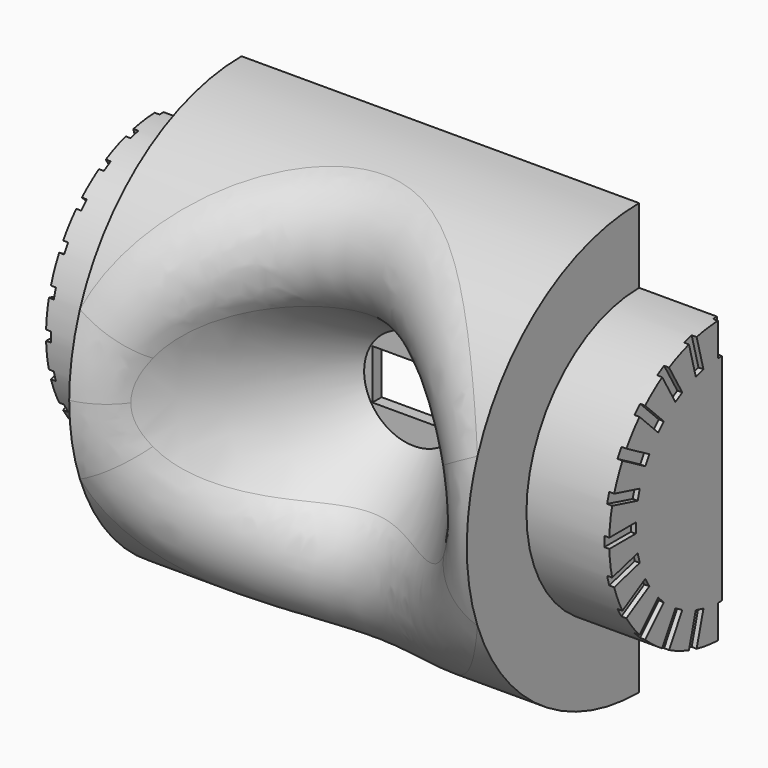
from build123d import *

# Parameters (mm, degrees)
PAD140_DEPTH                       = 12
PAD141_DEPTH                       = 5
POCKET001_DEPTH                    = 1.3
SKETCH008_W                        = 5
SKETCH008_H                        = 3
POCKET002_DEPTH                    = 80.350833
POCKET004_DEPTH                    = 8
SKETCH025_R                        = 1.375
PAD139_DEPTH                       = 1.3
FILLET005_R                        = 4
POCKET008_DEPTH                    = 0.3
POCKET008_POLARPATTERN004_2_DEPTH  = 0.3
POCKET008_POLARPATTERN004_3_DEPTH  = 0.3
POCKET008_POLARPATTERN004_4_DEPTH  = 0.3
POCKET008_POLARPATTERN004_5_DEPTH  = 0.3
POCKET008_POLARPATTERN004_6_DEPTH  = 0.3
POCKET008_POLARPATTERN004_7_DEPTH  = 0.3
POCKET008_POLARPATTERN004_8_DEPTH  = 0.3
POCKET008_POLARPATTERN004_9_DEPTH  = 0.3
POCKET008_POLARPATTERN004_10_DEPTH = 0.3
POCKET008_POLARPATTERN004_11_DEPTH = 0.3
POCKET008_POLARPATTERN004_12_DEPTH = 0.3
POCKET008_POLARPATTERN004_13_DEPTH = 0.3


with BuildPart() as part:
    # Sketch005 → Pad140 (new body)
    with BuildSketch(Plane.YZ):
        with BuildLine():
            ThreePointArc((0, 13), (-13, 0), (0, -13))
            Line((0, 13), (0, -13))
        make_face()
    pad140 = extrude(amount=PAD140_DEPTH)

    # Sketch006 → Pad141 (join)
    with BuildSketch(Plane.YZ.offset(12)):
        with BuildLine():
            ThreePointArc((0, 8.5), (-8.5, 0), (0, -8.5))
            Line((0, 8.5), (0, -8.5))
        make_face()
    pad141 = extrude(amount=PAD141_DEPTH)

    # Sketch007 → Pocket001 (cut)
    with BuildSketch(Plane(origin=(0, 0, 0), x_dir=(-1, 0, 0), z_dir=(0, 1, 0))):
        Polygon((-8, 4.4), (0, 4.4), (0, -8.4), (-8, -8.4), (-12.65, -3.75), (-12.65, -0.25), align=None)
    pocket001 = extrude(amount=-POCKET001_DEPTH, mode=Mode.SUBTRACT)

    # Sketch008 → Pocket002 (cut, through all)
    with BuildSketch(Plane.XZ):
        Rectangle(SKETCH008_W, SKETCH008_H)
    pocket002 = extrude(amount=POCKET002_DEPTH, mode=Mode.SUBTRACT)

    # Sketch010 → Pocket004 (cut)
    with BuildSketch(Plane(origin=(0, 0, 0), x_dir=(0, -1, 0), z_dir=(-1, 0, 0))):
        with BuildLine():
            ThreePointArc((1, -8), (3.25, -5.75), (1, -3.5))
            Line((1, -3.5), (1, -8))
        make_face()
    pocket004 = extrude(amount=-POCKET004_DEPTH, mode=Mode.SUBTRACT)

    # Sketch025 (on Face11 of Pocket004) → Pad139 (join)
    with BuildSketch(Plane.ZX.offset(-1.3)):
        with Locations((-2, 10)):
            Circle(SKETCH025_R)
    pad139 = extrude(amount=PAD139_DEPTH)

    # Mirrored018: Pad140, Pad141, Pocket001, Pocket002, Pocket004, Pad139 across YZ
    add(pad140.mirror(Plane.YZ))
    add(pad141.mirror(Plane.YZ))
    add(pocket001.mirror(Plane.YZ), mode=Mode.SUBTRACT)
    add(pocket002.mirror(Plane.YZ), mode=Mode.SUBTRACT)
    add(pocket004.mirror(Plane.YZ), mode=Mode.SUBTRACT)
    add(pad139.mirror(Plane.YZ))

    # Sketch019 → Groove (revolve, cut)
    with BuildSketch(Plane(origin=(0, -2, 0), x_dir=(1, 0, 0), z_dir=(0, 0, 1))):
        Polygon((-3, 0), (-17.004151, -20), (0, -20), (0, 0), align=None)
    revolve(axis=Axis((0, -2, 0), (0, 1, 0)), mode=Mode.SUBTRACT)

    # Fillet005
    fillet005_edges = [part.edges().sort_by_distance(p)[0] for p in [
        (10.702283, -13, 0),
    ]]
    fillet(fillet005_edges, radius=FILLET005_R)

    # Sketch020 → Pocket008 (cut)
    with BuildSketch(Plane.YZ.offset(-17)):
        with BuildLine():
            Line((0.3, 8.5), (0.3, 6.5))
            Line((0.3, 6.5), (-0.3, 6.5))
            Line((-0.3, 6.5), (-0.3, 8.5))
            ThreePointArc((0.3, 8.5), (0, 8.505292), (-0.3, 8.5))
        make_face()
    pocket008 = extrude(amount=POCKET008_DEPTH, mode=Mode.SUBTRACT)

    # Sketch020 PolarPattern004 2 → Pocket008 PolarPattern004 2 (cut)
    with BuildSketch(Plane(origin=(-17, 0, 0), x_dir=(0, 0.965926, 0.258819), z_dir=(1, 0, 0))):
        with BuildLine():
            Line((0.3, 8.5), (0.3, 6.5))
            Line((0.3, 6.5), (-0.3, 6.5))
            Line((-0.3, 6.5), (-0.3, 8.5))
            ThreePointArc((0.3, 8.5), (0, 8.505292), (-0.3, 8.5))
        make_face()
    pocket008_polarpattern004_2 = extrude(amount=POCKET008_POLARPATTERN004_2_DEPTH, mode=Mode.SUBTRACT)

    # Sketch020 PolarPattern004 3 → Pocket008 PolarPattern004 3 (cut)
    with BuildSketch(Plane(origin=(-17, 0, 0), x_dir=(0, 0.866025, 0.5), z_dir=(1, 0, 0))):
        with BuildLine():
            Line((0.3, 8.5), (0.3, 6.5))
            Line((0.3, 6.5), (-0.3, 6.5))
            Line((-0.3, 6.5), (-0.3, 8.5))
            ThreePointArc((0.3, 8.5), (0, 8.505292), (-0.3, 8.5))
        make_face()
    pocket008_polarpattern004_3 = extrude(amount=POCKET008_POLARPATTERN004_3_DEPTH, mode=Mode.SUBTRACT)

    # Sketch020 PolarPattern004 4 → Pocket008 PolarPattern004 4 (cut)
    with BuildSketch(Plane(origin=(-17, 0, 0), x_dir=(0, 0.707107, 0.707107), z_dir=(1, 0, 0))):
        with BuildLine():
            Line((0.3, 8.5), (0.3, 6.5))
            Line((0.3, 6.5), (-0.3, 6.5))
            Line((-0.3, 6.5), (-0.3, 8.5))
            ThreePointArc((0.3, 8.5), (0, 8.505292), (-0.3, 8.5))
        make_face()
    pocket008_polarpattern004_4 = extrude(amount=POCKET008_POLARPATTERN004_4_DEPTH, mode=Mode.SUBTRACT)

    # Sketch020 PolarPattern004 5 → Pocket008 PolarPattern004 5 (cut)
    with BuildSketch(Plane(origin=(-17, 0, 0), x_dir=(0, 0.5, 0.866025), z_dir=(1, 0, 0))):
        with BuildLine():
            Line((0.3, 8.5), (0.3, 6.5))
            Line((0.3, 6.5), (-0.3, 6.5))
            Line((-0.3, 6.5), (-0.3, 8.5))
            ThreePointArc((0.3, 8.5), (0, 8.505292), (-0.3, 8.5))
        make_face()
    pocket008_polarpattern004_5 = extrude(amount=POCKET008_POLARPATTERN004_5_DEPTH, mode=Mode.SUBTRACT)

    # Sketch020 PolarPattern004 6 → Pocket008 PolarPattern004 6 (cut)
    with BuildSketch(Plane(origin=(-17, 0, 0), x_dir=(0, 0.258819, 0.965926), z_dir=(1, 0, 0))):
        with BuildLine():
            Line((0.3, 8.5), (0.3, 6.5))
            Line((0.3, 6.5), (-0.3, 6.5))
            Line((-0.3, 6.5), (-0.3, 8.5))
            ThreePointArc((0.3, 8.5), (0, 8.505292), (-0.3, 8.5))
        make_face()
    pocket008_polarpattern004_6 = extrude(amount=POCKET008_POLARPATTERN004_6_DEPTH, mode=Mode.SUBTRACT)

    # Sketch020 PolarPattern004 7 → Pocket008 PolarPattern004 7 (cut)
    with BuildSketch(Plane(origin=(-17, 0, 0), x_dir=(0, 0, 1), z_dir=(1, 0, 0))):
        with BuildLine():
            Line((0.3, 8.5), (0.3, 6.5))
            Line((0.3, 6.5), (-0.3, 6.5))
            Line((-0.3, 6.5), (-0.3, 8.5))
            ThreePointArc((0.3, 8.5), (0, 8.505292), (-0.3, 8.5))
        make_face()
    pocket008_polarpattern004_7 = extrude(amount=POCKET008_POLARPATTERN004_7_DEPTH, mode=Mode.SUBTRACT)

    # Sketch020 PolarPattern004 8 → Pocket008 PolarPattern004 8 (cut)
    with BuildSketch(Plane(origin=(-17, 0, 0), x_dir=(0, -0.258819, 0.965926), z_dir=(1, 0, 0))):
        with BuildLine():
            Line((0.3, 8.5), (0.3, 6.5))
            Line((0.3, 6.5), (-0.3, 6.5))
            Line((-0.3, 6.5), (-0.3, 8.5))
            ThreePointArc((0.3, 8.5), (0, 8.505292), (-0.3, 8.5))
        make_face()
    pocket008_polarpattern004_8 = extrude(amount=POCKET008_POLARPATTERN004_8_DEPTH, mode=Mode.SUBTRACT)

    # Sketch020 PolarPattern004 9 → Pocket008 PolarPattern004 9 (cut)
    with BuildSketch(Plane(origin=(-17, 0, 0), x_dir=(0, -0.5, 0.866025), z_dir=(1, 0, 0))):
        with BuildLine():
            Line((0.3, 8.5), (0.3, 6.5))
            Line((0.3, 6.5), (-0.3, 6.5))
            Line((-0.3, 6.5), (-0.3, 8.5))
            ThreePointArc((0.3, 8.5), (0, 8.505292), (-0.3, 8.5))
        make_face()
    pocket008_polarpattern004_9 = extrude(amount=POCKET008_POLARPATTERN004_9_DEPTH, mode=Mode.SUBTRACT)

    # Sketch020 PolarPattern004 10 → Pocket008 PolarPattern004 10 (cut)
    with BuildSketch(Plane(origin=(-17, 0, 0), x_dir=(0, -0.707107, 0.707107), z_dir=(1, 0, 0))):
        with BuildLine():
            Line((0.3, 8.5), (0.3, 6.5))
            Line((0.3, 6.5), (-0.3, 6.5))
            Line((-0.3, 6.5), (-0.3, 8.5))
            ThreePointArc((0.3, 8.5), (0, 8.505292), (-0.3, 8.5))
        make_face()
    pocket008_polarpattern004_10 = extrude(amount=POCKET008_POLARPATTERN004_10_DEPTH, mode=Mode.SUBTRACT)

    # Sketch020 PolarPattern004 11 → Pocket008 PolarPattern004 11 (cut)
    with BuildSketch(Plane(origin=(-17, 0, 0), x_dir=(0, -0.866025, 0.5), z_dir=(1, 0, 0))):
        with BuildLine():
            Line((0.3, 8.5), (0.3, 6.5))
            Line((0.3, 6.5), (-0.3, 6.5))
            Line((-0.3, 6.5), (-0.3, 8.5))
            ThreePointArc((0.3, 8.5), (0, 8.505292), (-0.3, 8.5))
        make_face()
    pocket008_polarpattern004_11 = extrude(amount=POCKET008_POLARPATTERN004_11_DEPTH, mode=Mode.SUBTRACT)

    # Sketch020 PolarPattern004 12 → Pocket008 PolarPattern004 12 (cut)
    with BuildSketch(Plane(origin=(-17, 0, 0), x_dir=(0, -0.965926, 0.258819), z_dir=(1, 0, 0))):
        with BuildLine():
            Line((0.3, 8.5), (0.3, 6.5))
            Line((0.3, 6.5), (-0.3, 6.5))
            Line((-0.3, 6.5), (-0.3, 8.5))
            ThreePointArc((0.3, 8.5), (0, 8.505292), (-0.3, 8.5))
        make_face()
    pocket008_polarpattern004_12 = extrude(amount=POCKET008_POLARPATTERN004_12_DEPTH, mode=Mode.SUBTRACT)

    # Sketch020 PolarPattern004 13 → Pocket008 PolarPattern004 13 (cut)
    with BuildSketch(Plane(origin=(-17, 0, 0), x_dir=(0, -1, 0), z_dir=(1, 0, 0))):
        with BuildLine():
            Line((0.3, 8.5), (0.3, 6.5))
            Line((0.3, 6.5), (-0.3, 6.5))
            Line((-0.3, 6.5), (-0.3, 8.5))
            ThreePointArc((0.3, 8.5), (0, 8.505292), (-0.3, 8.5))
        make_face()
    pocket008_polarpattern004_13 = extrude(amount=POCKET008_POLARPATTERN004_13_DEPTH, mode=Mode.SUBTRACT)

    # Mirrored004: Pocket008, Pocket008 PolarPattern004 2, Pocket008 PolarPattern004 3, Pocket008 PolarPattern004 4, Pocket008 PolarPattern004 5, Pocket008 PolarPattern004 6, Pocket008 PolarPattern004 7, Pocket008 PolarPattern004 8, Pocket008 PolarPattern004 9, Pocket008 PolarPattern004 10, Pocket008 PolarPattern004 11, Pocket008 PolarPattern004 12, Pocket008 PolarPattern004 13 across YZ
    add(pocket008.mirror(Plane.YZ), mode=Mode.SUBTRACT)
    add(pocket008_polarpattern004_2.mirror(Plane.YZ), mode=Mode.SUBTRACT)
    add(pocket008_polarpattern004_3.mirror(Plane.YZ), mode=Mode.SUBTRACT)
    add(pocket008_polarpattern004_4.mirror(Plane.YZ), mode=Mode.SUBTRACT)
    add(pocket008_polarpattern004_5.mirror(Plane.YZ), mode=Mode.SUBTRACT)
    add(pocket008_polarpattern004_6.mirror(Plane.YZ), mode=Mode.SUBTRACT)
    add(pocket008_polarpattern004_7.mirror(Plane.YZ), mode=Mode.SUBTRACT)
    add(pocket008_polarpattern004_8.mirror(Plane.YZ), mode=Mode.SUBTRACT)
    add(pocket008_polarpattern004_9.mirror(Plane.YZ), mode=Mode.SUBTRACT)
    add(pocket008_polarpattern004_10.mirror(Plane.YZ), mode=Mode.SUBTRACT)
    add(pocket008_polarpattern004_11.mirror(Plane.YZ), mode=Mode.SUBTRACT)
    add(pocket008_polarpattern004_12.mirror(Plane.YZ), mode=Mode.SUBTRACT)
    add(pocket008_polarpattern004_13.mirror(Plane.YZ), mode=Mode.SUBTRACT)


solid = part.part
